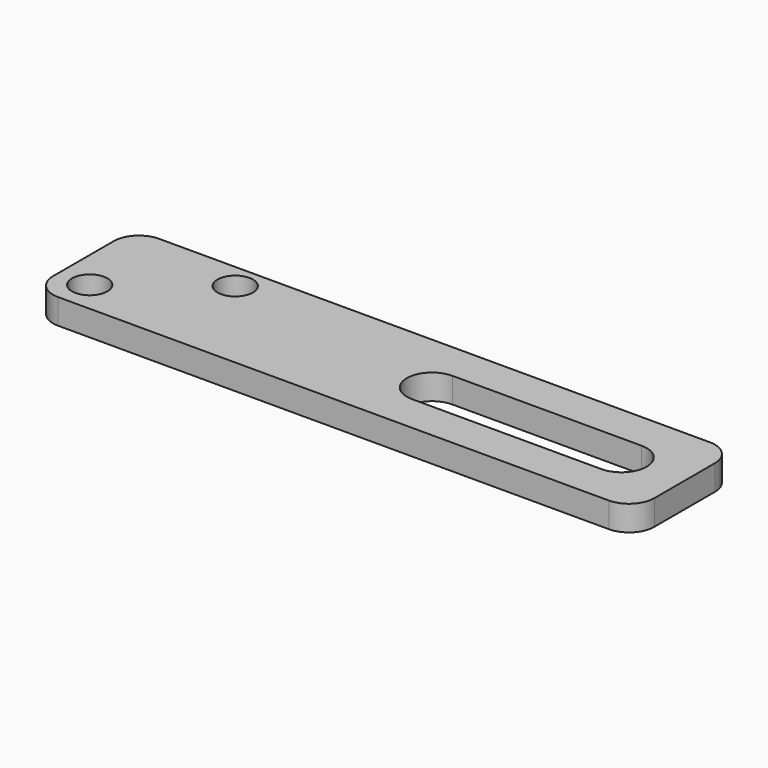
from build123d import *

# Parameters (mm, degrees)
F0_R     = 1.4
F1_DEPTH = 2
F2_R     = 2
F4_DEPTH = 2.001


with BuildPart() as f1:
    # F0 (on Top) → F1 (new body)
    with BuildSketch(Plane.XY):
        Polygon((47.623903, 0), (47.623903, 10), (13.023903, 10), (0, 10), (0, 0), align=None)
        with Locations((2.5, 2.5)):
            Circle(F0_R, mode=Mode.SUBTRACT)
        with Locations((9.623903, 8)):
            Circle(F0_R, mode=Mode.SUBTRACT)
    extrude(amount=F1_DEPTH)

    # F2
    f2_edges = [f1.edges().sort_by_distance(p)[0] for p in [
        (0, 0, 1),
        (0, 10, 1),
        (47.623903, 0, 1),
        (47.623903, 10, 1),
    ]]
    fillet(f2_edges, radius=F2_R)

    # F3 (on face) → F4 (cut, through all)
    with BuildSketch(Plane.XY.offset(2)):
        with BuildLine():
            ThreePointArc((42.623903, 3), (44.623903, 5), (42.623903, 7))
            Line((42.623903, 7), (27.623903, 7))
            ThreePointArc((27.623903, 7), (25.623903, 5), (27.623903, 3))
            Line((27.623903, 3), (42.623903, 3))
        make_face()
    extrude(amount=-F4_DEPTH, mode=Mode.SUBTRACT)


solid = f1.part
